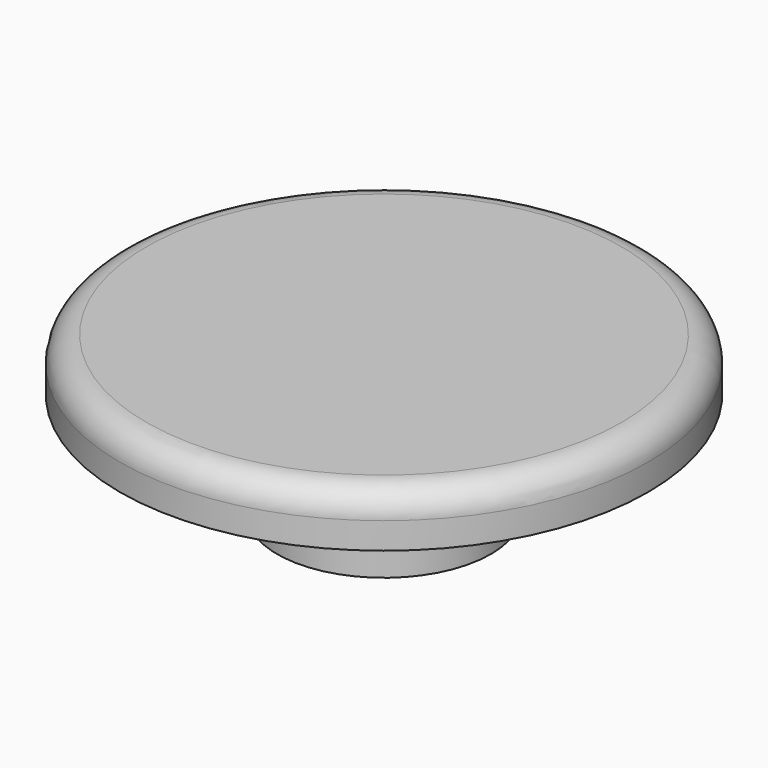
from build123d import *

# Parameters (mm, degrees)
F0_R     = 4.05
F1_DEPTH = 6
F0_R_2   = 5
F2_DEPTH = 2.5
F0_R_3   = 10
F3_DEPTH = 2
F4_R     = 1


with BuildPart() as f1:
    # F0 (on Top) → F1 (new body)
    with BuildSketch(Plane.XY):
        Circle(F0_R)
    extrude(amount=-F1_DEPTH)

    # F0 (on Top) → F2 (join)
    with BuildSketch(Plane.XY):
        Circle(F0_R_2)
        Circle(F0_R, mode=Mode.SUBTRACT)
    extrude(amount=-F2_DEPTH)

    # F0 (on Top) → F3 (join)
    with BuildSketch(Plane.XY):
        Circle(F0_R_3)
        Circle(F0_R_2, mode=Mode.SUBTRACT)
    extrude(amount=-F3_DEPTH)

    # F4
    f4_edges = [f1.edges().sort_by_distance(p)[0] for p in [
        (-10, 0, 0),
    ]]
    fillet(f4_edges, radius=F4_R)


solid = f1.part
